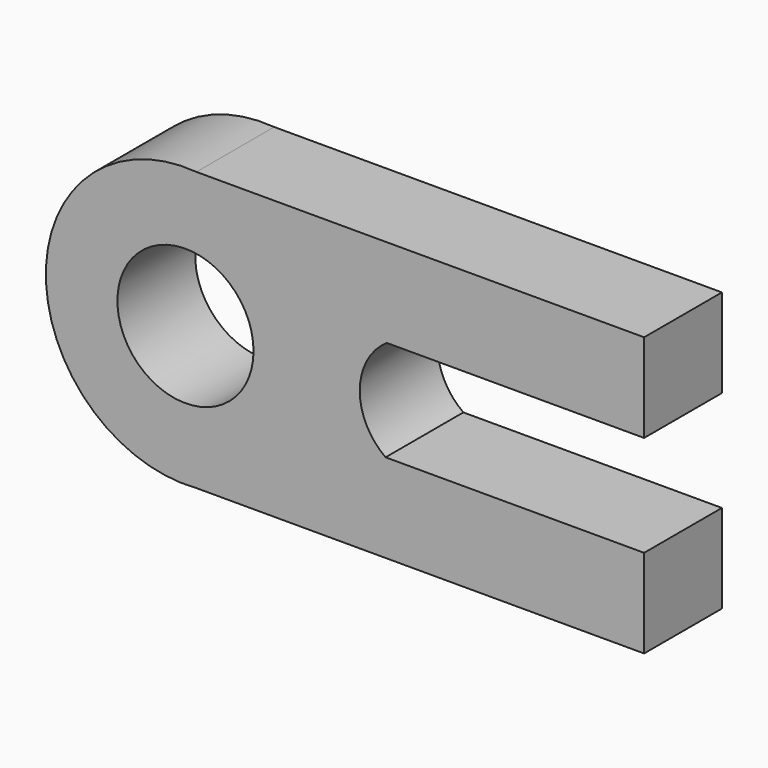
from build123d import *

# Parameters (mm, degrees)
F0_R     = 17.775209
F1_DEPTH = 25.4


with BuildPart() as f1:
    # F0 (on Front) → F1 (new body)
    with BuildSketch(Plane.XZ):
        with BuildLine():
            ThreePointArc((-66.587123, -18.142906), (-42.667153, -6.543066), (-32.977377, 18.212327))
            ThreePointArc((-32.977377, 18.212327), (-42.667153, 42.96772), (-66.587123, 54.567559))
            ThreePointArc((-66.587123, 54.567559), (-105.912113, 18.212327), (-66.587123, -18.142906))
        make_face()
        with Locations((-69.444745, 18.212327)):
            Circle(F0_R, mode=Mode.SUBTRACT)
        with BuildLine():
            ThreePointArc((-66.587123, 54.567559), (-42.667153, 42.96772), (-32.977377, 18.212327))
            ThreePointArc((-32.977377, 18.212327), (-42.667153, -6.543066), (-66.587123, -18.142906))
            Line((-66.587123, -18.142906), (50.354917, -18.142906))
            Line((50.354917, -18.142906), (50.354917, 5.00767))
            Line((50.354917, 5.00767), (-17.176457, 5.00767))
            ThreePointArc((-17.176457, 5.00767), (-23.921096, 18.288839), (-16.882842, 31.41677))
            Line((-16.882842, 31.41677), (50.354917, 31.41677))
            Line((50.354917, 31.41677), (50.354917, 50.795339))
            ThreePointArc((50.354917, 50.795339), (45.72161, 53.463349), (40.490307, 54.567559))
            Line((40.490307, 54.567559), (-66.587123, 54.567559))
        make_face()
        with BuildLine():
            Line((50.354917, 54.567559), (40.490307, 54.567559))
            ThreePointArc((40.490307, 54.567559), (45.72161, 53.463349), (50.354917, 50.795339))
            Line((50.354917, 50.795339), (50.354917, 54.567559))
        make_face()
    extrude(amount=F1_DEPTH)


solid = f1.part
